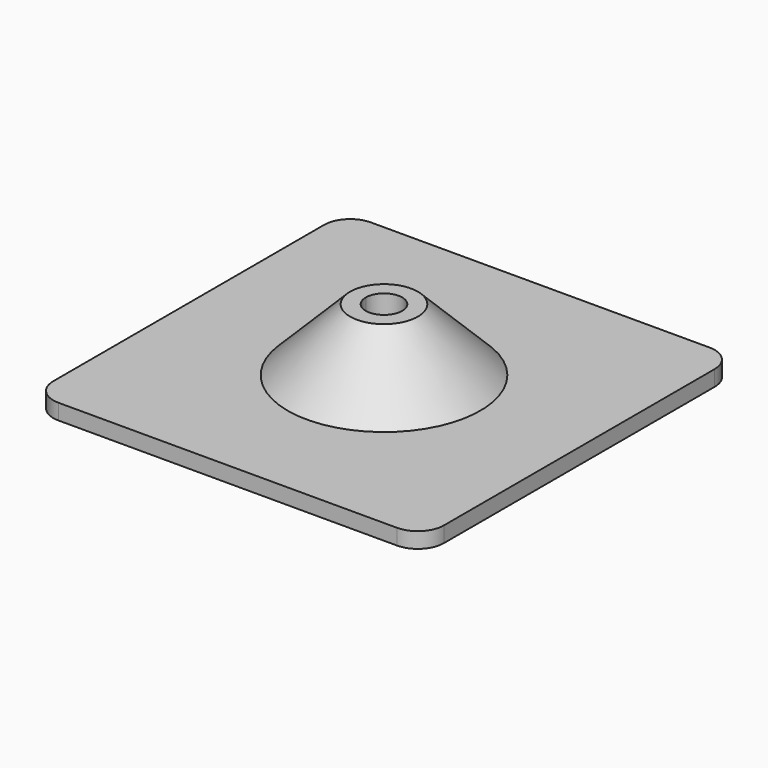
from build123d import *

# Parameters (mm, degrees)
F0_W     = 75
F0_H     = 75
F1_DEPTH = 3
F4_R     = 3.5
F5_DEPTH = 15.001
F6_R     = 5


with BuildPart() as f1:
    # F0 (on Top) → F1 (new body)
    with BuildSketch(Plane.XY):
        Rectangle(F0_W, F0_H)
    extrude(amount=F1_DEPTH)

    # F2 (on Front) → F3 (revolve)
    with BuildSketch(Plane.XZ):
        Polygon((-6.5, 15), (-18.5, 3), (-3.5, 3), (-3.5, 15), align=None)
    revolve(axis=Axis((0, 0, 28.255757), (0, 0, 1)))

    # F4 (on face) → F5 (cut, through all)
    with BuildSketch(Plane.XY.offset(15)):
        Circle(F4_R)
    extrude(amount=-F5_DEPTH, mode=Mode.SUBTRACT)

    # F6
    f6_edges = [f1.edges().sort_by_distance(p)[0] for p in [
        (-37.5, 37.5, 1.5),
        (-37.5, -37.5, 1.5),
        (37.5, -37.5, 1.5),
        (37.5, 37.5, 1.5),
    ]]
    fillet(f6_edges, radius=F6_R)


solid = f1.part
